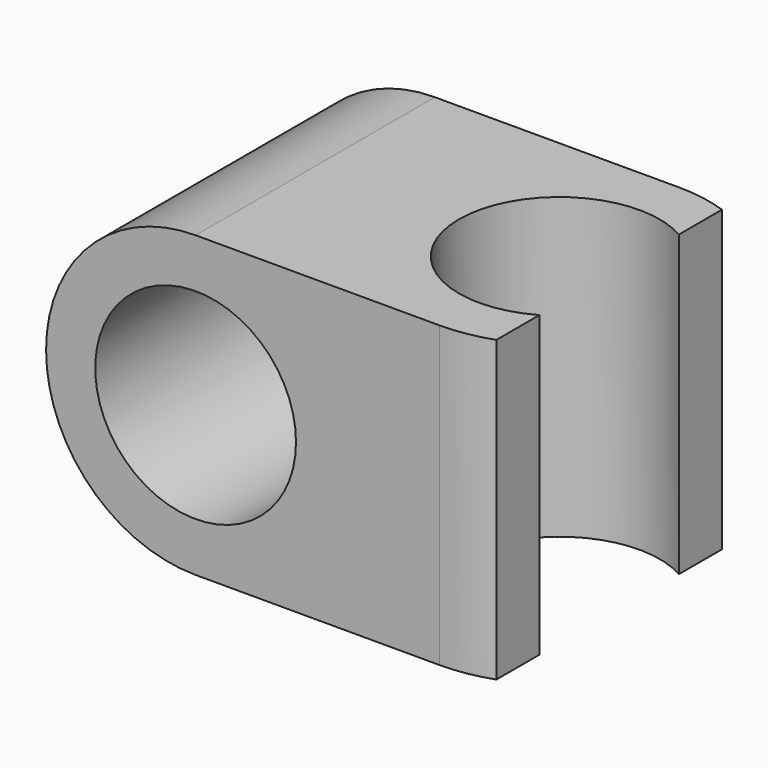
from build123d import *

# Parameters (mm, degrees)
F0_W     = 19.07
F0_H     = 10.5
F1_DEPTH = 10.5
F2_R     = 3.525
F3_DEPTH = 10.5
F5_DEPTH = 10.5


with BuildPart() as f1:
    # F0 (on Front) → F1 (new body)
    with BuildSketch(Plane.XZ):
        Rectangle(F0_W, F0_H)
    extrude(amount=-F1_DEPTH)

    # F2 (on face) → F3 (cut, through all)
    with BuildSketch(Plane.XZ):
        with BuildLine():
            ThreePointArc((-4.285, -5.25), (-7.997311, -3.712311), (-9.535, 0))
            Line((-9.535, 0), (-9.535, -5.25))
            Line((-9.535, -5.25), (-4.285, -5.25))
        make_face()
        with BuildLine():
            ThreePointArc((-9.535, 0), (-7.997311, 3.712311), (-4.285, 5.25))
            Line((-4.285, 5.25), (-9.535, 5.25))
            Line((-9.535, 5.25), (-9.535, 0))
        make_face()
        with Locations((-4.285, 0)):
            Circle(F2_R)
    extrude(amount=-F3_DEPTH, mode=Mode.SUBTRACT)

    # F4 (on face) → F5 (cut, through all)
    with BuildSketch(Plane.XY.offset(5.25)):
        with BuildLine():
            ThreePointArc((6.035, 0.300253), (5.172785, 0.075608), (4.285, 0))
            Line((4.285, 0), (9.535, 0))
            Line((9.535, 0), (9.535, 10.5))
            Line((9.535, 10.5), (4.285, 10.5))
            ThreePointArc((4.285, 10.5), (5.172785, 10.424392), (6.035, 10.199747))
            Line((6.035, 10.199747), (6.035, 8.309922))
            ThreePointArc((6.035, 8.309922), (0.76, 5.25), (6.035, 2.190078))
            Line((6.035, 2.190078), (6.035, 0.300253))
        make_face()
    extrude(amount=-F5_DEPTH, mode=Mode.SUBTRACT)


solid = f1.part
